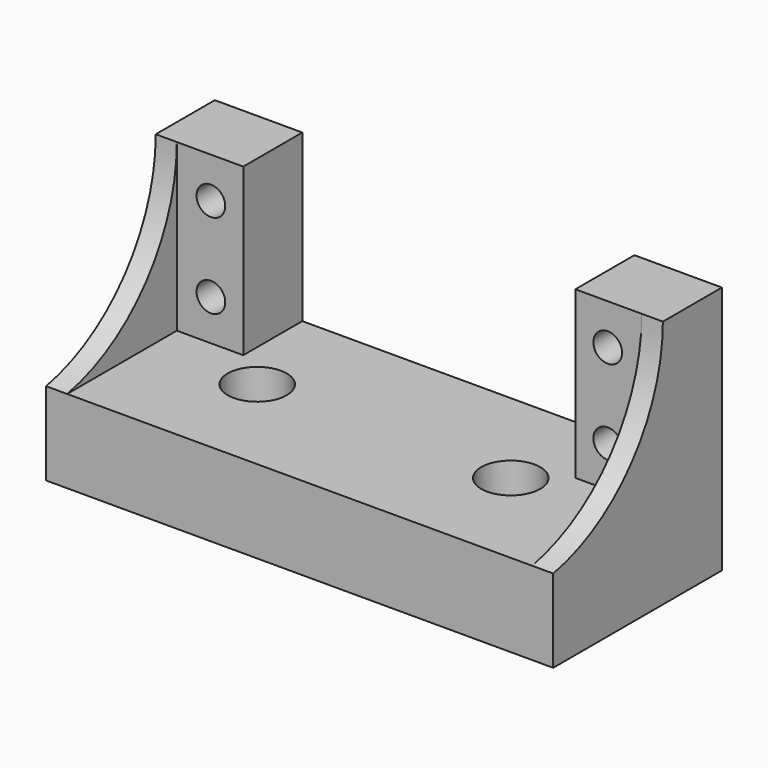
from build123d import *

# Parameters (mm, degrees)
F0_R      = 1.7272
F1_DEPTH  = 8.89
F2_W      = 56
F2_H      = 10
F3_DEPTH  = 16.51
F5_DEPTH  = 2.54
F7_DEPTH  = 2.54
F8_R      = 2.0955
F9_DEPTH  = 10.001
F10_R     = 3.556
F11_DEPTH = 4.445


with BuildPart() as f1:
    # F0 (on Front) → F1 (new body)
    with BuildSketch(Plane.XZ):
        Polygon((0, 30), (0, 0), (56, 0), (56, 30), (48, 30), (48, 10), (8, 10), (8, 30), align=None)
        with Locations((4.1, 14.9)):
            Circle(F0_R, mode=Mode.SUBTRACT)
        with Locations((51.9, 14.9)):
            Circle(F0_R, mode=Mode.SUBTRACT)
        with Locations((4.1, 25.1)):
            Circle(F0_R, mode=Mode.SUBTRACT)
        with Locations((51.9, 25.1)):
            Circle(F0_R, mode=Mode.SUBTRACT)
    extrude(amount=F1_DEPTH)

    # F2 (on face) → F3 (join)
    with BuildSketch(Plane.XZ.offset(8.89)):
        with Locations((28, 5)):
            Rectangle(F2_W, F2_H)
    extrude(amount=F3_DEPTH)

    # F4 (on face) → F5 (join)
    with BuildSketch(Plane.YZ.offset(56)):
        with BuildLine():
            Line((0, 30), (-8.89, 30))
            ThreePointArc((-8.89, 30), (-13.550724, 17.032925), (-25.4, 10))
            Line((-25.4, 10), (-25.4, 0))
            Line((-25.4, 0), (0, 0))
            Line((0, 0), (0, 30))
        make_face()
    extrude(amount=F5_DEPTH)

    # F6 (on face) → F7 (join)
    with BuildSketch(Plane(origin=(0, 0, 0), x_dir=(0, -1, 0), z_dir=(-1, 0, 0))):
        Polygon((8.89, 10), (8.89, 30), (0, 30), (0, 0), (25.4, 0), (25.4, 10), align=None)
        with BuildLine():
            ThreePointArc((25.4, 10), (13.550724, 17.032925), (8.89, 30))
            Line((8.89, 30), (8.89, 10))
            Line((8.89, 10), (25.4, 10))
        make_face()
    extrude(amount=F7_DEPTH)

    # F8 (on face) → F9 (cut, through all)
    with BuildSketch(Plane.XY.offset(10)):
        with Locations((12.73, -12.7)):
            Circle(F8_R)
        with Locations((43.27, -12.7)):
            Circle(F8_R)
    extrude(amount=-F9_DEPTH, mode=Mode.SUBTRACT)

    # F10 (on face) → F11 (cut)
    with BuildSketch(Plane.XY.offset(10)):
        with Locations((12.73, -12.7)):
            Circle(F10_R)
        with Locations((43.27, -12.7)):
            Circle(F10_R)
    extrude(amount=-F11_DEPTH, mode=Mode.SUBTRACT)


solid = f1.part
